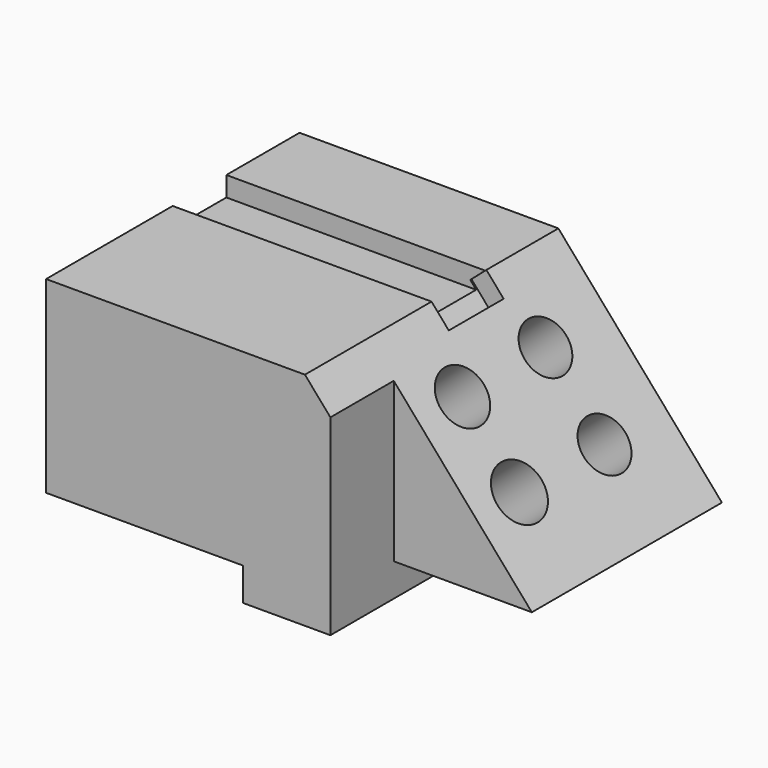
from build123d import *

# Parameters (mm, degrees)
F1_DEPTH = 101.6
F2_W     = 83.0206293613
F2_H     = 21.5133689344
F3_DEPTH = 6.35
F5_DEPTH = 6.35
F4_R     = 8.5928571877
F4_R_2   = 8.3348569543
F4_R_3   = 8.3703398653
F4_R_4   = 8.8433843917
F6_DEPTH = 25.4
F8_DEPTH = 25.4


with BuildPart() as f1:
    # F0 (on Front) → F1 (new body)
    with BuildSketch(Plane.XZ):
        Polygon((29.7097470611, 36.9836613536), (-53.3108823001, 36.9836613536), (-53.3108823001, -23.3776271343), (9.7702555358, -23.3776271343), (9.7702555358, -33.9363776147), (37.8775633872, -33.9363776147), (37.8775633872, -23.3776271343), (82.1659564972, -23.3776271343), align=None)
    extrude(amount=F1_DEPTH)

    # F2 (on face) → F3 (cut)
    with BuildSketch(Plane.XY.offset(36.9836613536)):
        with Locations((-11.8005676195, -40.090886876)):
            Rectangle(F2_W, F2_H)
    extrude(amount=-F3_DEPTH, mode=Mode.SUBTRACT)

    # F4 (on face) → F5 (cut)
    with BuildSketch(Plane(origin=(35.2375904862, 0, 30.6227794812), x_dir=(0, 1, 0), z_dir=(0.7548028054, 0, 0.6559517703))):
        Polygon((-29.3342024088, 8.4272101627), (-50.8475713432, 8.4272101627), (-50.8475713432, 0), (-28.8472529501, 0), (-28.8472529501, 8.4272101627), align=None)
    extrude(amount=-F5_DEPTH, mode=Mode.SUBTRACT)

    # F4 (on face) → F6 (cut)
    with BuildSketch(Plane(origin=(35.2375904862, 0, 30.6227794812), x_dir=(0, 1, 0), z_dir=(0.7548028054, 0, 0.6559517703))):
        with Locations((-58.5515610874, -16.0959567875)):
            Circle(F4_R)
        with Locations((-25.0144358724, -15.7757736742)):
            Circle(F4_R_2)
        with Locations((-24.6950350702, -44.2721843719)):
            Circle(F4_R_3)
        with Locations((-58.5515610874, -43.9519882202)):
            Circle(F4_R_4)
    extrude(amount=-F6_DEPTH, mode=Mode.SUBTRACT)

    # F7 (on face) → F8 (cut)
    with BuildSketch(Plane.XZ.offset(101.6)):
        Polygon((37.8775633872, 27.584966273), (37.8775633872, -23.3776271343), (82.1659564972, -23.3776271343), align=None)
    extrude(amount=-F8_DEPTH, mode=Mode.SUBTRACT)


solid = f1.part
